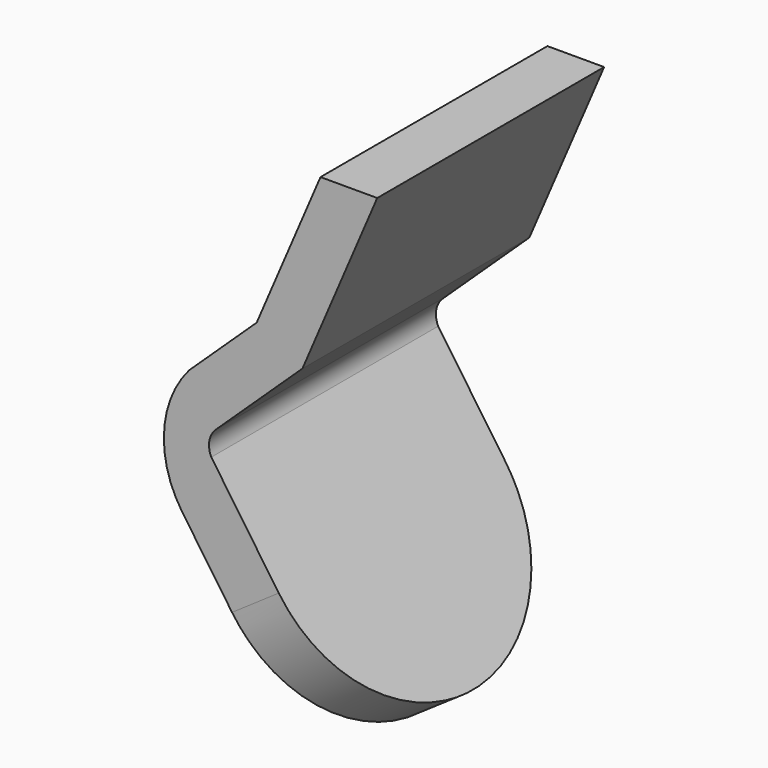
from build123d import *

# Parameters (mm, degrees)
PAD007_DEPTH            = 0.45
BODY007_PLACEMENT_ANGLE = 325.45
PAD005_DEPTH            = 2


with BuildPart() as body007:
    # Sketch009 → Pad007 (new body)
    with BuildSketch(Plane.YZ):
        with BuildLine():
            ThreePointArc((-1, 1.01), (0, 0.01), (1, 1.010001))
            Line((1, 0), (1, 1.010001))
            Line((-1, 0), (1, 0))
            Line((-1, 1.01), (-1, 0))
        make_face()
    extrude(amount=PAD007_DEPTH)


with BuildPart() as body007_1:
    # Body007 placement: moved
    add(body007.part.moved(Location((-4.97, 0, -3.75))).rotate(Axis((-4.97, 0, -3.75), (0, 1, 0)), BODY007_PLACEMENT_ANGLE))


with BuildPart() as cut004:
    # Sketch007 → Pad005 (new body)
    with BuildSketch(Plane.XZ):
        with BuildLine():
            Line((-4.9, 0), (-5.350031, -1.05))
            Line((-5.350031, -1.05), (-5.825942, -1.5))
            ThreePointArc((-5.825942, -1.5), (-6.003166, -1.93596), (-5.879403, -2.39))
            Line((-4.956057, -3.727275), (-5.879403, -2.39))
            Line((-4.626897, -3.5), (-4.956057, -3.727275))
            Line((-5.67, -1.989282), (-4.626897, -3.5))
            ThreePointArc((-5.63, -1.8), (-5.68283, -1.887703), (-5.67, -1.989282))
            Line((-5.027179, -1.23), (-5.63, -1.8))
            Line((-4.5, 0), (-5.027179, -1.23))
            Line((-4.9, 0), (-4.5, 0))
        make_face()
    extrude(amount=PAD005_DEPTH)


with BuildPart() as cut004_1:
    # Body005 placement: moved
    add(cut004.part.moved(Location((0, 1, 0))))

    # Cut004: cut Body007
    add(body007_1.part, mode=Mode.SUBTRACT)


solid = cut004_1.part
